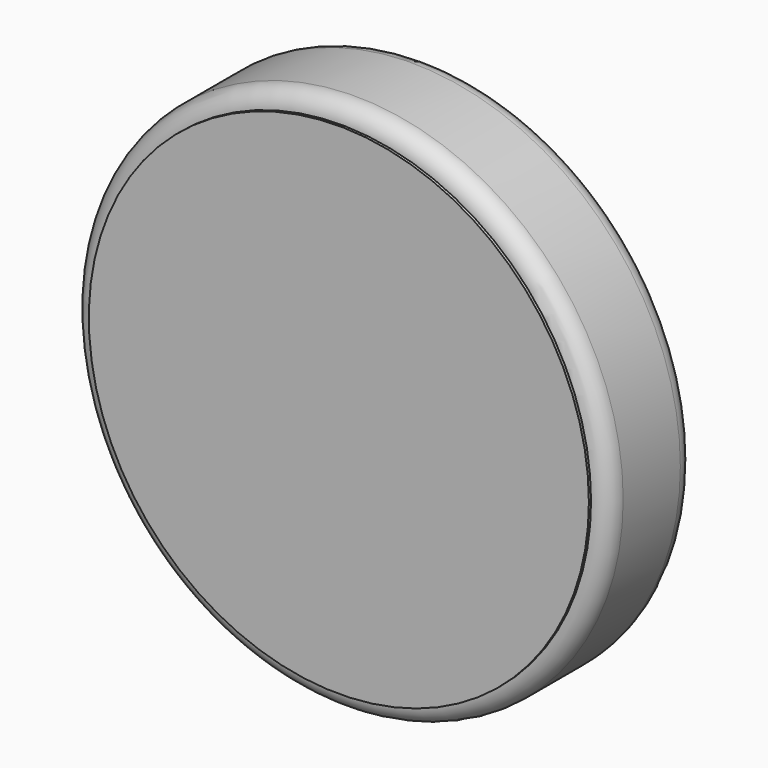
from build123d import *

# Parameters (mm, degrees)
F0_R     = 76.194135209
F1_DEPTH = 15.24
F2_DEPTH = 15.24
F3_R     = 5.08
F5_DEPTH = 0.762
F6_R     = 71.114135209
F7_DEPTH = 0.254


with BuildPart() as f1:
    # F0 (on Front) → F1 (new body)
    with BuildSketch(Plane.XZ):
        Circle(F0_R)
    extrude(amount=F1_DEPTH)

    # F2 (add): a face of the model
    f2_faces = [f1.faces().sort_by_distance(p)[0] for p in [
        (0, 0, 0),
    ]]
    extrude(f2_faces, amount=F2_DEPTH)

    # F3
    f3_edges = [f1.edges().sort_by_distance(p)[0] for p in [
        (76.194135, -7.62, 0),
        (-76.194135, 0, 0),
        (-76.194135, -15.24, 0),
        (76.194135, 7.62, 0),
        (-76.194135, 15.24, 0),
    ]]
    fillet(f3_edges, radius=F3_R)

    # F4 (on face) → F5 (join)
    with BuildSketch(Plane.XZ.offset(15.24)):
        with BuildLine():
            Line((61.5866476591, -35.5570676045), (0, 0))
            Line((0, 0), (-61.5866476591, -35.5570676045))
            ThreePointArc((-61.5866476591, -35.5570676045), (0, -71.114135209), (61.5866476591, -35.5570676045))
        make_face()
        with BuildLine():
            Line((-61.5866476591, -35.5570676045), (0, 0))
            Line((0, 0), (0, 71.114135209))
            ThreePointArc((0, 71.114135209), (-61.5866476591, 35.5570676045), (-61.5866476591, -35.5570676045))
        make_face()
        with BuildLine():
            Line((0, 71.114135209), (0, 0))
            Line((0, 0), (61.5866476591, -35.5570676045))
            ThreePointArc((61.5866476591, -35.5570676045), (68.6909798125, -18.4056925681), (71.114135209, 0))
            ThreePointArc((71.114135209, 0), (50.2852872445, 50.2852872445), (0, 71.114135209))
        make_face()
    extrude(amount=F5_DEPTH)

    # F6 (on face) → F7 (join)
    with BuildSketch(Plane(origin=(0, 15.24, 0), x_dir=(-1, 0, 0), z_dir=(0, 1, 0))):
        Circle(F6_R)
    extrude(amount=F7_DEPTH)


solid = f1.part
